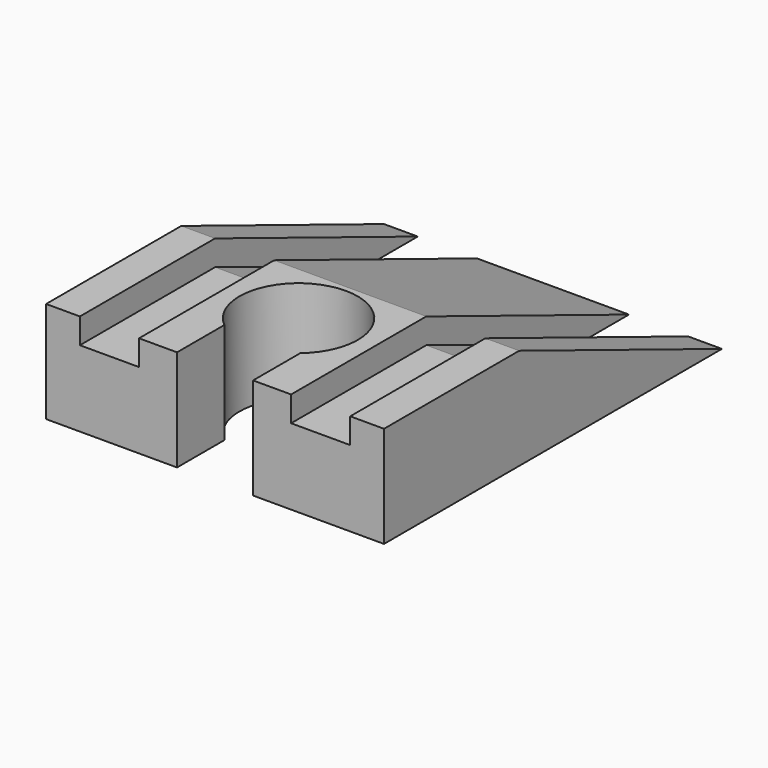
from build123d import *

# Parameters (mm, degrees)
SKETCH002_W          = 40
SKETCH002_H          = 12
POCKET_DEPTH         = 50.001
POCKET001_DEPTH      = 12.001
POCKET001_DEPTH_BACK = 0.001


with BuildPart() as part:
    # AdditivePipe: sweep along a path in Sketch
    with BuildLine(Plane.YZ) as additivepipe_path:
        Line((0, 0), (20, 0))
        Line((20, 0), (50, -12))
    # Sketch001 → AdditivePipe (sweep)
    with BuildSketch(Plane.XZ):
        Polygon((-20, 6), (-20, -6), (20, -6), (20, 6), (16, 6), (16, 3), (9, 3), (9, 6), (-9, 6), (-9, 3), (-16, 3), (-16, 6), align=None)
    sweep(path=additivepipe_path.line)

    # Sketch002 → Pocket (cut, through all)
    with BuildSketch(Plane.XZ):
        with Locations((0, -12)):
            Rectangle(SKETCH002_W, SKETCH002_H)
    extrude(amount=-POCKET_DEPTH, mode=Mode.SUBTRACT)

    # Sketch003 (on Face9 of Pocket) → Pocket001 (cut, two sides)
    with BuildSketch(Plane(origin=(0, 0, 6), x_dir=(-1, 0, 0), z_dir=(0, 0, 1))) as pocket001_sk:
        with BuildLine():
            Line((-4.5, 0), (4.5, 0))
            Line((4.5, 0), (4.5, -7))
            ThreePointArc((-4.5, -7), (0, -19.361903), (4.5, -7))
            Line((-4.5, 0), (-4.5, -7))
        make_face()
    extrude(amount=-POCKET001_DEPTH, mode=Mode.SUBTRACT)
    extrude(pocket001_sk.sketch, amount=POCKET001_DEPTH_BACK, mode=Mode.SUBTRACT)


solid = part.part
